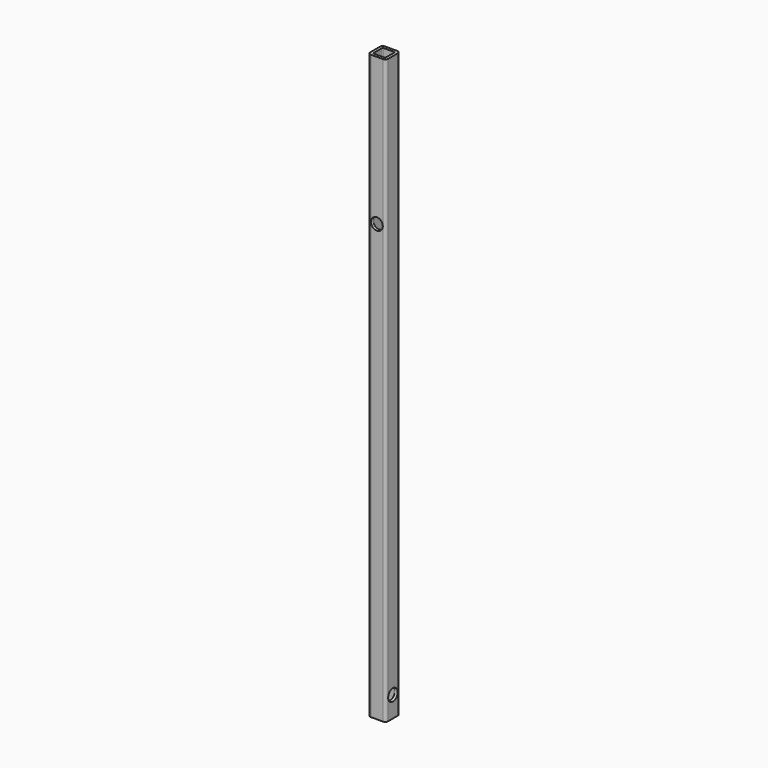
from build123d import *

# Parameters (mm, degrees)
F1_DEPTH = 622.3
F2_R     = 3.683
F3_DEPTH = 47.498
F4_R     = 6.35
F5_DEPTH = 4.064
F6_R     = 3.683
F7_DEPTH = 25.4
F8_R     = 6.35
F9_DEPTH = 8.636


with BuildPart() as f1:
    # F0 (on Top) → F1 (new body)
    with BuildSketch(Plane.XY):
        with BuildLine():
            ThreePointArc((0, 3.175), (0.929936, 0.929936), (3.175, 0))
            Line((3.175, 0), (15.875, 0))
            ThreePointArc((15.875, 0), (18.120064, 0.929936), (19.05, 3.175))
            Line((19.05, 3.175), (19.05, 15.875))
            ThreePointArc((19.05, 15.875), (18.120064, 18.120064), (15.875, 19.05))
            Line((15.875, 19.05), (3.175, 19.05))
            ThreePointArc((3.175, 19.05), (0.929936, 18.120064), (0, 15.875))
            Line((0, 15.875), (0, 3.175))
        make_face()
        with BuildLine():
            ThreePointArc((3.048, 14.986), (3.34558, 15.70442), (4.064, 16.002))
            Line((4.064, 16.002), (14.986, 16.002))
            ThreePointArc((14.986, 16.002), (15.70442, 15.70442), (16.002, 14.986))
            Line((16.002, 14.986), (16.002, 4.064))
            ThreePointArc((16.002, 4.064), (15.70442, 3.34558), (14.986, 3.048))
            Line((14.986, 3.048), (4.064, 3.048))
            ThreePointArc((4.064, 3.048), (3.34558, 3.34558), (3.048, 4.064))
            Line((3.048, 4.064), (3.048, 14.986))
        make_face(mode=Mode.SUBTRACT)
    extrude(amount=F1_DEPTH)

    # F2 (on Right) → F3 (cut)
    with BuildSketch(Plane.YZ):
        with Locations((9.525, 22.225)):
            Circle(F2_R)
    extrude(amount=F3_DEPTH, mode=Mode.SUBTRACT)

    # F4 (on face) → F5 (cut)
    with BuildSketch(Plane.YZ.offset(19.05)):
        with Locations((9.525, 22.225)):
            Circle(F4_R)
    extrude(amount=-F5_DEPTH, mode=Mode.SUBTRACT)

    # F6 (on Front) → F7 (cut)
    with BuildSketch(Plane.XZ):
        with Locations((9.525, 465.328)):
            Circle(F6_R)
    extrude(amount=-F7_DEPTH, mode=Mode.SUBTRACT)

    # F8 (on face) → F9 (cut)
    with BuildSketch(Plane.XZ):
        with Locations((9.525, 465.328)):
            Circle(F8_R)
    extrude(amount=-F9_DEPTH, mode=Mode.SUBTRACT)


solid = f1.part
